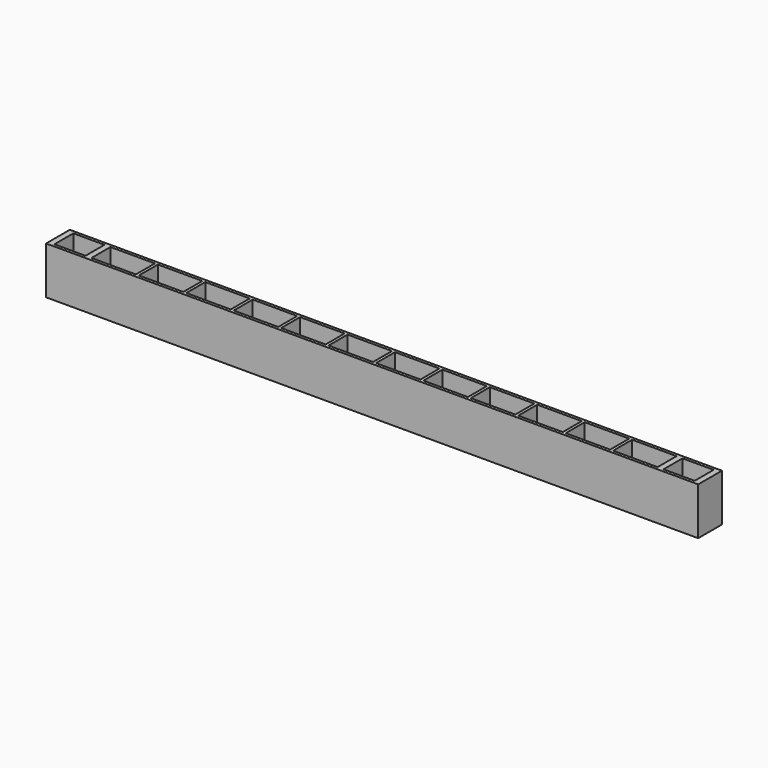
from build123d import *

# Parameters (mm, degrees)
F0_W     = 110
F0_H     = 5
F0_W_2   = 7.5
F0_H_2   = 4
F1_DEPTH = 8
F2_W     = 5.25
F2_H     = 4
F3_DEPTH = 7


with BuildPart() as f1:
    # F0 (on Top) → F1 (new body)
    with BuildSketch(Plane.XY):
        Rectangle(F0_W, F0_H)
        with Locations((-44, 0)):
            Rectangle(F0_W_2, F0_H_2, mode=Mode.SUBTRACT)
        with Locations((-36, 0)):
            Rectangle(F0_W_2, F0_H_2, mode=Mode.SUBTRACT)
        with Locations((-28, 0)):
            Rectangle(F0_W_2, F0_H_2, mode=Mode.SUBTRACT)
        with Locations((-20, 0)):
            Rectangle(F0_W_2, F0_H_2, mode=Mode.SUBTRACT)
        with Locations((-12, 0)):
            Rectangle(F0_W_2, F0_H_2, mode=Mode.SUBTRACT)
        with Locations((-4, 0)):
            Rectangle(F0_W_2, F0_H_2, mode=Mode.SUBTRACT)
        with Locations((4, 0)):
            Rectangle(F0_W_2, F0_H_2, mode=Mode.SUBTRACT)
        with Locations((12, 0)):
            Rectangle(F0_W_2, F0_H_2, mode=Mode.SUBTRACT)
        with Locations((20, 0)):
            Rectangle(F0_W_2, F0_H_2, mode=Mode.SUBTRACT)
        with Locations((28, 0)):
            Rectangle(F0_W_2, F0_H_2, mode=Mode.SUBTRACT)
        with Locations((36, 0)):
            Rectangle(F0_W_2, F0_H_2, mode=Mode.SUBTRACT)
        with Locations((44, 0)):
            Rectangle(F0_W_2, F0_H_2, mode=Mode.SUBTRACT)
    extrude(amount=F1_DEPTH)

    # F2 (on face) → F3 (cut)
    with BuildSketch(Plane.XY.offset(8)):
        with Locations((-51.375, 0)):
            Rectangle(F2_W, F2_H)
        with Locations((51.375, 0)):
            Rectangle(F2_W, F2_H)
    extrude(amount=-F3_DEPTH, mode=Mode.SUBTRACT)


solid = f1.part
